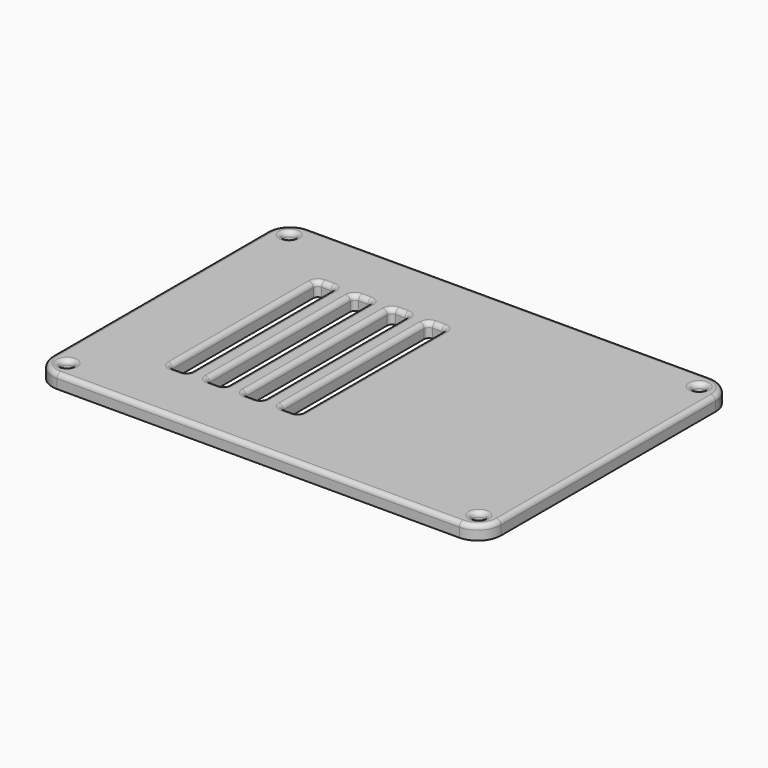
from build123d import *

# Parameters (mm, degrees)
PAD003_DEPTH    = 3
POCKET004_DEPTH = 5
SKETCH014_R     = 1.2
HOLE002_DEPTH   = 25
FILLET001_R     = 1


with BuildPart() as part:
    # Sketch010 → Pad003 (new body)
    with BuildSketch(Plane.XY):
        with BuildLine():
            Line((-43.5, -34), (43.5, -34))
            ThreePointArc((43.5, -34), (47.035534, -32.535534), (48.5, -29))
            Line((48.5, -29), (48.5, 29))
            ThreePointArc((48.5, 29), (47.035534, 32.535534), (43.5, 34))
            Line((43.5, 34), (-43.5, 34))
            ThreePointArc((-43.5, 34), (-47.035534, 32.535534), (-48.5, 29))
            Line((-48.5, 29), (-48.5, -29))
            ThreePointArc((-48.5, -29), (-47.035534, -32.535534), (-43.5, -34))
        make_face()
    extrude(amount=PAD003_DEPTH)

    # Sketch012 → Pocket004 (cut)
    with BuildSketch(Plane.XY.offset(3)):
        with BuildLine():
            Line((-29.5, -20), (-27.5, -20))
            ThreePointArc((-27.5, -20), (-26.792893, -19.707107), (-26.5, -19))
            Line((-26.5, -19), (-26.5, 19))
            ThreePointArc((-26.5, 19), (-26.792893, 19.707107), (-27.5, 20))
            Line((-27.5, 20), (-29.5, 20))
            ThreePointArc((-29.5, 20), (-30.207107, 19.707107), (-30.5, 19))
            Line((-30.5, 19), (-30.5, -19))
            ThreePointArc((-30.5, -19), (-30.207107, -19.707107), (-29.5, -20))
        make_face()
        with BuildLine():
            Line((-21.5, -20), (-19.5, -20))
            ThreePointArc((-19.5, -20), (-18.792893, -19.707107), (-18.5, -19))
            Line((-18.5, -19), (-18.5, 19))
            ThreePointArc((-18.5, 19), (-18.792893, 19.707107), (-19.5, 20))
            Line((-19.5, 20), (-21.5, 20))
            ThreePointArc((-21.5, 20), (-22.207107, 19.707107), (-22.5, 19))
            Line((-22.5, 19), (-22.5, -19))
            ThreePointArc((-22.5, -19), (-22.207107, -19.707107), (-21.5, -20))
        make_face()
        with BuildLine():
            Line((-13.5, -20), (-11.5, -20))
            ThreePointArc((-11.5, -20), (-10.792893, -19.707107), (-10.5, -19))
            Line((-10.5, -19), (-10.5, 19))
            ThreePointArc((-10.5, 19), (-10.792893, 19.707107), (-11.5, 20))
            Line((-11.5, 20), (-13.5, 20))
            ThreePointArc((-13.5, 20), (-14.207107, 19.707107), (-14.5, 19))
            Line((-14.5, 19), (-14.5, -19))
            ThreePointArc((-14.5, -19), (-14.207107, -19.707107), (-13.5, -20))
        make_face()
        with BuildLine():
            Line((-5.5, -20), (-3.5, -20))
            ThreePointArc((-3.5, -20), (-2.792893, -19.707107), (-2.5, -19))
            Line((-2.5, -19), (-2.5, 19))
            ThreePointArc((-2.5, 19), (-2.792893, 19.707107), (-3.5, 20))
            Line((-3.5, 20), (-5.5, 20))
            ThreePointArc((-5.5, 20), (-6.207107, 19.707107), (-6.5, 19))
            Line((-6.5, 19), (-6.5, -19))
            ThreePointArc((-6.5, -19), (-6.207107, -19.707107), (-5.5, -20))
        make_face()
    extrude(amount=-POCKET004_DEPTH, mode=Mode.SUBTRACT)

    # Sketch014 (on Face4 of Pocket004) → Hole002 (cut)
    with BuildSketch(Plane(origin=(0, 0, 0), x_dir=(1, 0, 0), z_dir=(0, 0, -1))):
        with Locations((-44.535638, -30.035429)):
            Circle(SKETCH014_R)
        with Locations((44.198019, -29.976099)):
            Circle(SKETCH014_R)
        with Locations((44.535415, 30.035653)):
            Circle(SKETCH014_R)
        with Locations((-44.535421, 30.035647)):
            Circle(SKETCH014_R)
    extrude(amount=-HOLE002_DEPTH, mode=Mode.SUBTRACT)

    # Fillet001
    fillet001_edges = [part.edges().sort_by_distance(p)[0] for p in [
        (0, -34, 3),
        (-47.035534, -32.535534, 3),
        (47.035534, -32.535534, 3),
        (-48.5, 0, 3),
        (48.5, 0, 3),
        (-47.035534, 32.535534, 3),
        (47.035534, 32.535534, 3),
        (0, 34, 3),
        (-43.335421, -30.035647, 3),
        (45.735415, -30.035653, 3),
        (-28.5, -20, 3),
        (-30.207107, -19.707107, 3),
        (-26.792893, -19.707107, 3),
        (-30.5, 0, 3),
        (-26.5, 0, 3),
        (-30.207107, 19.707107, 3),
        (-26.792893, 19.707107, 3),
        (-28.5, 20, 3),
        (-20.5, -20, 3),
        (-22.207107, -19.707107, 3),
        (-18.792893, -19.707107, 3),
        (-22.5, 0, 3),
        (-18.5, 0, 3),
        (-22.207107, 19.707107, 3),
        (-18.792893, 19.707107, 3),
        (-20.5, 20, 3),
        (-12.5, -20, 3),
        (-14.207107, -19.707107, 3),
        (-10.792893, -19.707107, 3),
        (-14.5, 0, 3),
        (-10.5, 0, 3),
        (-14.207107, 19.707107, 3),
        (-10.792893, 19.707107, 3),
        (-12.5, 20, 3),
        (-4.5, -20, 3),
        (-6.207107, -19.707107, 3),
        (-2.792893, -19.707107, 3),
        (-6.5, 0, 3),
        (-2.5, 0, 3),
        (-6.207107, 19.707107, 3),
        (-2.792893, 19.707107, 3),
        (-4.5, 20, 3),
        (-43.335638, 30.035429, 3),
        (45.398019, 29.976099, 3),
    ]]
    fillet(fillet001_edges, radius=FILLET001_R)


with BuildPart() as part_1:
    # Body001 placement: moved
    add(part.part.moved(Location((0, 0, 30))))


solid = part_1.part
